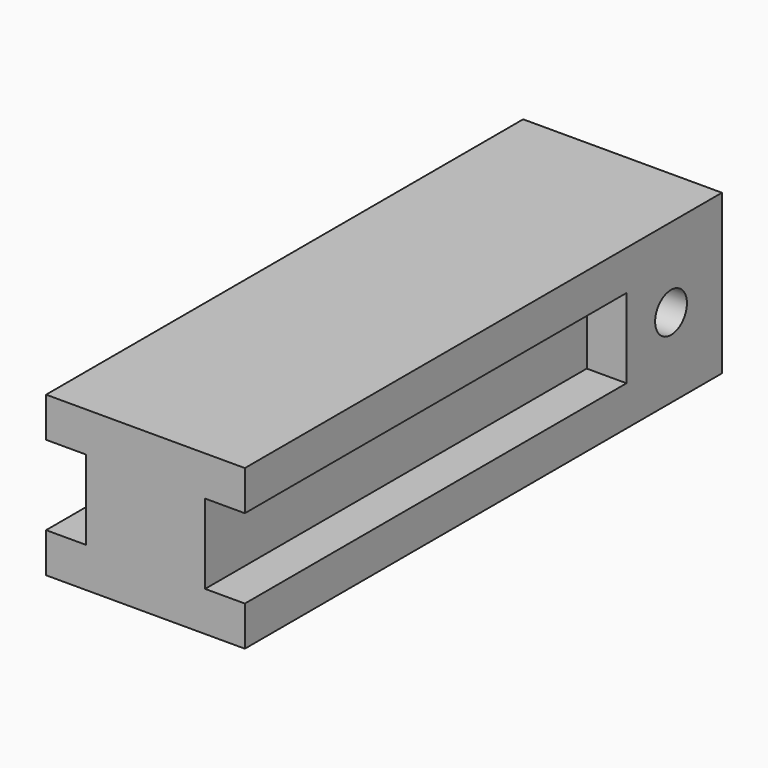
from build123d import *

# Parameters (mm, degrees)
F0_W     = 50
F0_H     = 40
F1_DEPTH = 150
F2_R     = 5
F3_DEPTH = 104
F5_W     = 15
F5_H     = 20
F6_DEPTH = 120


with BuildPart() as f1:
    # F0 (on Front) → F1 (new body)
    with BuildSketch(Plane.XZ):
        Rectangle(F0_W, F0_H)
    extrude(amount=F1_DEPTH)


with BuildPart() as f3:
    # F2 (on face) → F3 (new body)
    with BuildSketch(Plane.YZ.offset(25)):
        with Locations((-16, 0)):
            Circle(F2_R)
    extrude(amount=-F3_DEPTH)


with BuildPart() as f1_1:
    add(f1.part)

    # F4: cut F3
    add(f3.part, mode=Mode.SUBTRACT)


with BuildPart() as f6:
    # F5 (on face) → F6 (new body)
    with BuildSketch(Plane.XZ.offset(150)):
        with Locations((-22.5, 0)):
            Rectangle(F5_W, F5_H)
        with Locations((22.5, 0)):
            Rectangle(F5_W, F5_H)
    extrude(amount=-F6_DEPTH)


with BuildPart() as f1_2:
    add(f1_1.part)

    # F7: cut F6
    add(f6.part, mode=Mode.SUBTRACT)


solid = f1_2.part
